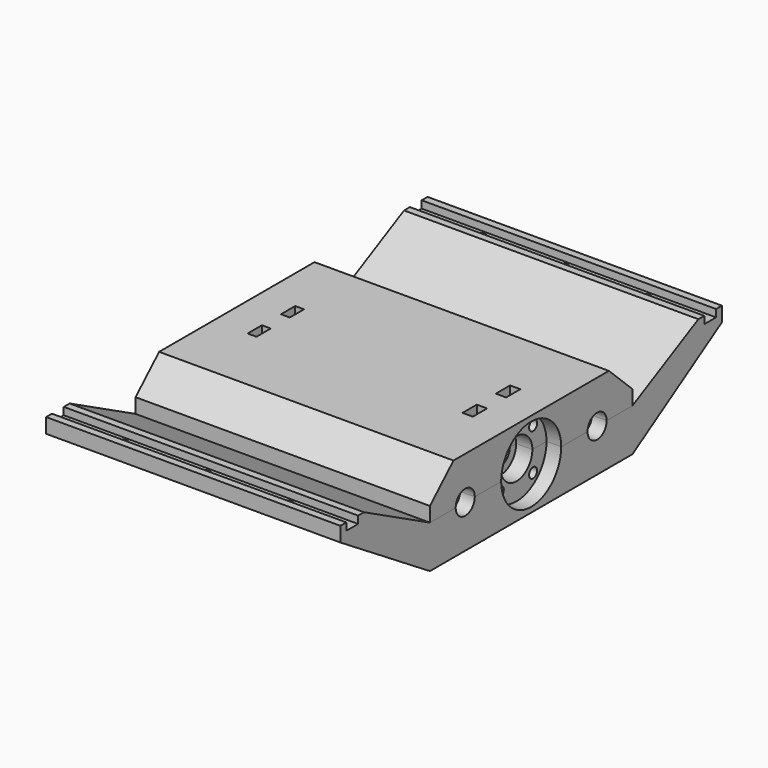
from build123d import *

# Parameters (mm, degrees)
SKETCH_R        = 4.05
PAD_DEPTH       = 100
SKETCH001_R     = 7.55
POCKET_DEPTH    = 24
SKETCH002_R     = 7.55
POCKET001_DEPTH = 24
SKETCH003_R     = 12.75
POCKET002_DEPTH = 5
SKETCH004_R     = 12.75
POCKET003_DEPTH = 5
SKETCH005_R     = 1.7
POCKET004_DEPTH = 100.001
SKETCH006_R     = 6.75
POCKET005_DEPTH = 10.5
SKETCH007_R     = 6.75
POCKET006_DEPTH = 10.5
POCKET007_DEPTH = 3
POCKET008_DEPTH = 3.5
SKETCH017_R     = 1.7
POCKET011_DEPTH = 17
SKETCH019_R     = 3
POCKET013_DEPTH = 5
SKETCH026_R     = 3
POCKET022_DEPTH = 3
SKETCH024_W     = 86
SKETCH024_H     = 15
POCKET019_DEPTH = 240.001
POCKET020_DEPTH = 240.001


with BuildPart() as x_carriage_base:
    # Sketch → Pad (new body)
    with BuildSketch(Plane.YZ):
        Polygon((-50, 9.5), (16, 9.5), (26, 0), (26, -5), (54, 9.5), (56.5, 9.5), (56.5, 7), (61.5, 7), (61.5, 9.5), (64, 9.5), (64, 4.5), (26, -19.5), (16, -19.5), (-50, -19.5), (-60, -19.5), (-98, 4.5), (-98, 9.5), (-95.5, 9.5), (-95.5, 7), (-90.5, 7), (-90.5, 9.5), (-88, 9.5), (-60, -5), (-60, 0), align=None)
        with Locations((-45, -5)):
            Circle(SKETCH_R, mode=Mode.SUBTRACT)
        with Locations((11, -5)):
            Circle(SKETCH_R, mode=Mode.SUBTRACT)
        with Locations((-17, -5)):
            Circle(SKETCH_R, mode=Mode.SUBTRACT)
    extrude(amount=PAD_DEPTH)

    # Sketch001 → Pocket (cut)
    with BuildSketch(Plane.YZ.offset(5)):
        with Locations((-45, -5)):
            Circle(SKETCH001_R)
        with Locations((11, -5)):
            Circle(SKETCH001_R)
    extrude(amount=POCKET_DEPTH, mode=Mode.SUBTRACT)

    # Sketch002 → Pocket001 (cut)
    with BuildSketch(Plane.YZ.offset(71)):
        with Locations((-45, -5)):
            Circle(SKETCH002_R)
        with Locations((11, -5)):
            Circle(SKETCH002_R)
    extrude(amount=POCKET001_DEPTH, mode=Mode.SUBTRACT)

    # Sketch003 → Pocket002 (cut)
    with BuildSketch(Plane.YZ.offset(10.5)):
        with Locations((-17, -5)):
            Circle(SKETCH003_R)
    extrude(amount=-POCKET002_DEPTH, mode=Mode.SUBTRACT)

    # Sketch004 → Pocket003 (cut)
    with BuildSketch(Plane.YZ.offset(100)):
        with Locations((-17, -5)):
            Circle(SKETCH004_R)
    extrude(amount=-POCKET003_DEPTH, mode=Mode.SUBTRACT)

    # Sketch005 → Pocket004 (cut, through all)
    with BuildSketch(Plane(origin=(0, -17, -5), x_dir=(0, 0.707107, 0.707107), z_dir=(1, 0, 0))):
        with Locations((-10, 0)):
            Circle(SKETCH005_R)
        with Locations((10, 0)):
            Circle(SKETCH005_R)
        with Locations((0, -10)):
            Circle(SKETCH005_R)
        with Locations((0, 10)):
            Circle(SKETCH005_R)
    extrude(amount=POCKET004_DEPTH, mode=Mode.SUBTRACT)

    # Sketch006 → Pocket005 (cut)
    with BuildSketch(Plane.YZ):
        with Locations((-17, -5)):
            Circle(SKETCH006_R)
    extrude(amount=POCKET005_DEPTH, mode=Mode.SUBTRACT)

    # Sketch007 → Pocket006 (cut)
    with BuildSketch(Plane.YZ.offset(100)):
        with Locations((-17, -5)):
            Circle(SKETCH007_R)
    extrude(amount=-POCKET006_DEPTH, mode=Mode.SUBTRACT)

    # Sketch008 → Pocket007 (cut)
    with BuildSketch(Plane.YZ.offset(11.75)):
        Polygon((-21.039964, 0.321088), (-21.039964, 3.821088), (-21.039964, 9.821088), (-27.102142, 9.821088), (-27.102142, 3.821088), (-27.102142, 0.321088), (-24.071053, -1.428912), align=None)
        Polygon((-6.897864, 0.321088), (-6.897864, 3.821088), (-6.897864, 9.821088), (-12.960042, 9.821088), (-12.960042, 3.821088), (-12.960042, 0.321088), (-9.928953, -1.428912), align=None)
        Polygon((-21.039964, -13.821083), (-21.039964, -10.321083), (-24.071053, -8.571083), (-27.102142, -10.321083), (-27.102142, -13.821083), (-27.102142, -19.821083), (-21.039964, -19.821083), align=None)
        Polygon((-6.897864, -13.821083), (-6.897864, -10.321083), (-9.928953, -8.571083), (-12.960042, -10.321083), (-12.960042, -13.821083), (-12.960042, -19.821083), (-6.897864, -19.821083), align=None)
    extrude(amount=POCKET007_DEPTH, mode=Mode.SUBTRACT)

    # Sketch009 → Pocket008 (cut)
    with BuildSketch(Plane.YZ.offset(88.25)):
        Polygon((-21.039964, 0.321088), (-21.039964, 3.821088), (-21.039964, 9.821088), (-27.102142, 9.821088), (-27.102142, 3.821088), (-27.102142, 0.321088), (-24.071053, -1.428912), align=None)
        Polygon((-6.897864, 0.321088), (-6.897864, 3.821088), (-6.897864, 9.821088), (-12.960042, 9.821088), (-12.960042, 3.821088), (-12.960042, 0.321088), (-9.928953, -1.428912), align=None)
        Polygon((-21.039964, -13.821083), (-21.039964, -10.321083), (-24.071053, -8.571083), (-27.102142, -10.321083), (-27.102142, -13.821083), (-27.102142, -19.821083), (-21.039964, -19.821083), align=None)
        Polygon((-6.897864, -13.821083), (-6.897864, -10.321083), (-9.928953, -8.571083), (-12.960042, -10.321083), (-12.960042, -13.821083), (-12.960042, -19.821083), (-6.897864, -19.821083), align=None)
    extrude(amount=-POCKET008_DEPTH, mode=Mode.SUBTRACT)

    # Sketch017 → Pocket011 (cut)
    with BuildSketch(Plane.XY):
        with Locations((22, 59)):
            Circle(SKETCH017_R)
        with Locations((78, 59)):
            Circle(SKETCH017_R)
        with Locations((22, -93)):
            Circle(SKETCH017_R)
        with Locations((50, -93)):
            Circle(SKETCH017_R)
        with Locations((78, -93)):
            Circle(SKETCH017_R)
        with Locations((50, 59)):
            Circle(SKETCH017_R)
    extrude(amount=POCKET011_DEPTH, mode=Mode.SUBTRACT)

    # Sketch019 → Pocket013 (cut)
    with BuildSketch(Plane.XY):
        with Locations((22, 59)):
            Circle(SKETCH019_R)
        with Locations((78, 59)):
            Circle(SKETCH019_R)
        with Locations((22, -93)):
            Circle(SKETCH019_R)
        with Locations((50, -93)):
            Circle(SKETCH019_R)
        with Locations((78, -93)):
            Circle(SKETCH019_R)
        with Locations((50, 59)):
            Circle(SKETCH019_R)
    extrude(amount=POCKET013_DEPTH, mode=Mode.SUBTRACT)

    # Sketch026 → Pocket022 (cut)
    with BuildSketch(Plane.YZ):
        with Locations((-24.07105, 2.07105)):
            Circle(SKETCH026_R)
        with Locations((-9.92891, 2.07105)):
            Circle(SKETCH026_R)
        with Locations((-24.07105, -12.07109)):
            Circle(SKETCH026_R)
        with Locations((-9.92891, -12.07109)):
            Circle(SKETCH026_R)
    extrude(amount=POCKET022_DEPTH, mode=Mode.SUBTRACT)


with BuildPart() as x_carriage_base_1:
    # Body placement: moved
    add(x_carriage_base.part.moved(Location((140, 0, 0))))


with BuildPart() as x_carriage_bottom:
    # Body001 base: copy of x-carriage-base
    add(x_carriage_base_1.part)

    # Sketch024 → Pocket019 (cut, through all)
    with BuildSketch(Plane.YZ):
        with Locations((-17, 2.5)):
            Rectangle(SKETCH024_W, SKETCH024_H)
    extrude(amount=POCKET019_DEPTH, mode=Mode.SUBTRACT)


with BuildPart() as x_carriage_top:
    # Body002 base: copy of x-carriage-base
    add(x_carriage_base_1.part)

    # Sketch025 → Pocket020 (cut, through all)
    with BuildSketch(Plane.YZ):
        Polygon((-100, 12), (-60, 12), (-60, -5), (26, -5), (26, 12), (67, 12), (67, -20), (-100, -20), align=None)
    extrude(amount=POCKET020_DEPTH, mode=Mode.SUBTRACT)


solid = Compound([x_carriage_bottom.part, x_carriage_top.part])
